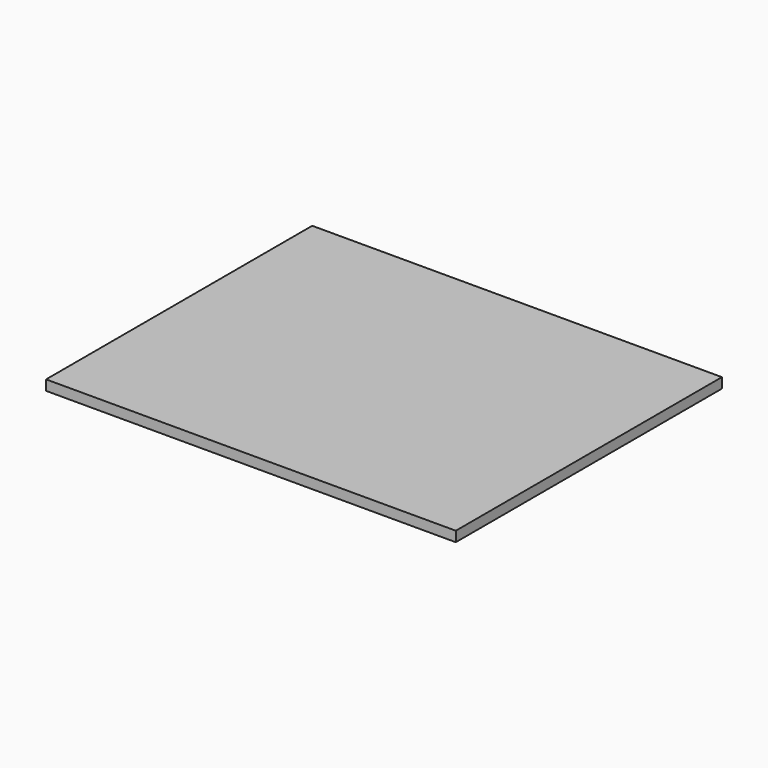
from build123d import *

# Parameters (mm, degrees)
SKETCH_W  = 202
SKETCH_H  = 164
PAD_DEPTH = 2.5


with BuildPart() as part:
    # Sketch → Pad (new body, symmetric)
    with BuildSketch(Plane.XY):
        Rectangle(SKETCH_W, SKETCH_H)
    extrude(amount=PAD_DEPTH, both=True)


solid = part.part
